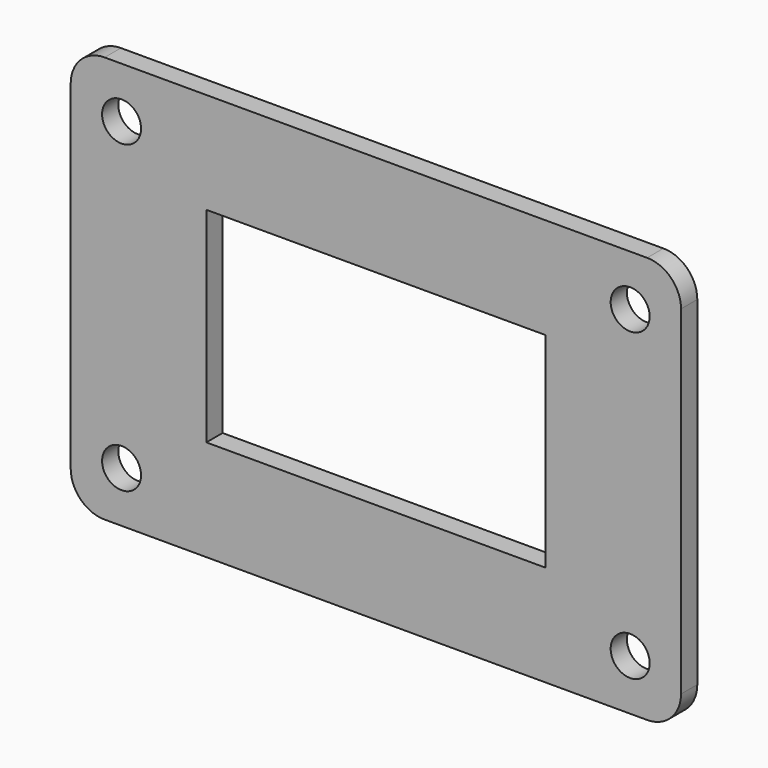
from build123d import *

# Parameters (mm, degrees)
F0_W     = 180
F0_H     = 120
F0_R     = 5.75
F0_W_2   = 100
F0_H_2   = 60.4
F1_DEPTH = 6
F2_R     = 10


with BuildPart() as f1:
    # F0 (on Front) → F1 (new body)
    with BuildSketch(Plane.XZ):
        Rectangle(F0_W, F0_H)
        with Locations((-75, -45)):
            Circle(F0_R, mode=Mode.SUBTRACT)
        with Locations((75, -45)):
            Circle(F0_R, mode=Mode.SUBTRACT)
        with Locations((-75, 45)):
            Circle(F0_R, mode=Mode.SUBTRACT)
        Rectangle(F0_W_2, F0_H_2, mode=Mode.SUBTRACT)
        with Locations((75, 45)):
            Circle(F0_R, mode=Mode.SUBTRACT)
    extrude(amount=F1_DEPTH)

    # F2
    f2_edges = [f1.edges().sort_by_distance(p)[0] for p in [
        (-90, -3, 60),
        (90, -3, 60),
        (90, -3, -60),
        (-90, -3, -60),
    ]]
    fillet(f2_edges, radius=F2_R)


solid = f1.part
